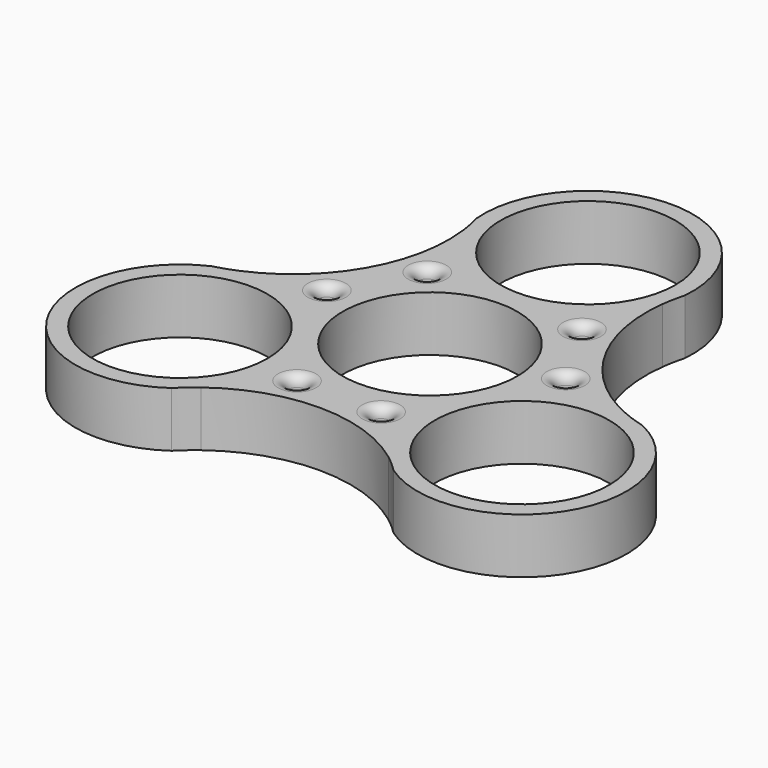
from build123d import *

# Parameters (mm, degrees)
F0_R     = 12.65
F0_R_2   = 1.25
F1_DEPTH = 8
F2_R     = 1.5


with BuildPart() as f1:
    # F0 (on Top) → F1 (new body)
    with BuildSketch(Plane.XY):
        with BuildLine():
            ThreePointArc((17.986386, 8.860156), (14.865353, 16.12172), (14.443723, 24.014336))
            ThreePointArc((14.443723, 24.014336), (14.708207, 25.655336), (15.09293, 27.272378))
            ThreePointArc((15.09293, 27.272378), (0, 43.736138), (-15.09293, 27.272378))
            ThreePointArc((-15.09293, 27.272378), (-14.708207, 25.655336), (-14.443723, 24.014336))
            ThreePointArc((-14.443723, 24.014336), (-17.292837, 9.984024), (-28.018887, 0.501463))
            ThreePointArc((-28.018887, 0.501463), (-29.572277, -0.089987), (-31.165037, -0.565328))
            ThreePointArc((-31.165037, -0.565328), (-37.876607, -21.868069), (-16.072107, -26.70705))
            ThreePointArc((-16.072107, -26.70705), (-14.864069, -25.565349), (-13.575164, -24.515799))
            ThreePointArc((-13.575164, -24.515799), (0, -19.968048), (13.575164, -24.515799))
            ThreePointArc((13.575164, -24.515799), (14.864069, -25.565349), (16.072107, -26.70705))
            ThreePointArc((16.072107, -26.70705), (37.876607, -21.868069), (31.165037, -0.565328))
            ThreePointArc((31.165037, -0.565328), (29.572277, -0.089987), (28.018887, 0.501463))
            ThreePointArc((28.018887, 0.501463), (22.383919, 3.938195), (17.986386, 8.860156))
        make_face()
        with Locations((-24.756322, -14.293069)):
            Circle(F0_R, mode=Mode.SUBTRACT)
        with Locations((-6.089644, -16.45219)):
            Circle(F0_R_2, mode=Mode.SUBTRACT)
        with Locations((-17.292837, 2.952308)):
            Circle(F0_R_2, mode=Mode.SUBTRACT)
        with Locations((6.089644, -16.45219)):
            Circle(F0_R_2, mode=Mode.SUBTRACT)
        with Locations((24.756322, -14.293069)):
            Circle(F0_R, mode=Mode.SUBTRACT)
        Circle(F0_R, mode=Mode.SUBTRACT)
        with Locations((17.292837, 2.952308)):
            Circle(F0_R_2, mode=Mode.SUBTRACT)
        with Locations((-11.203192, 13.499882)):
            Circle(F0_R_2, mode=Mode.SUBTRACT)
        with Locations((11.203192, 13.499882)):
            Circle(F0_R_2, mode=Mode.SUBTRACT)
        with Locations((0, 28.586138)):
            Circle(F0_R, mode=Mode.SUBTRACT)
    extrude(amount=F1_DEPTH)

    # F2
    f2_edges = [f1.edges().sort_by_distance(p)[0] for p in [
        (-12.453192, 13.499882, 0),
        (-12.453192, 13.499882, 8),
        (-18.542837, 2.952308, 8),
        (-7.339644, -16.45219, 8),
        (4.839644, -16.45219, 8),
        (16.042837, 2.952308, 8),
        (9.953192, 13.499882, 0),
        (9.953192, 13.499882, 8),
        (-7.339644, -16.45219, 0),
        (4.839644, -16.45219, 0),
        (-18.542837, 2.952308, 0),
        (16.042837, 2.952308, 0),
    ]]
    fillet(f2_edges, radius=F2_R)


solid = f1.part
